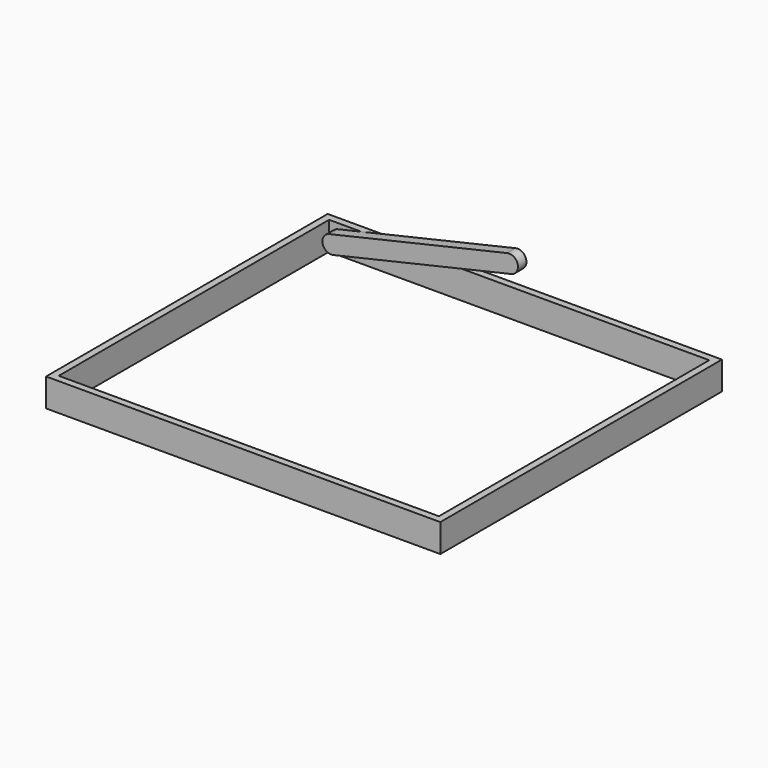
from build123d import *

# Parameters (mm, degrees)
F11_DEPTH = 38.1
F9_R      = 31.75
F12_DEPTH = 38.1
F4_W      = 1219.2
F4_H      = 101.6
F14_DEPTH = 25.4
F2_W      = 1397
F2_H      = 101.6
F15_DEPTH = 25.4
F16_DEPTH = 25.4
F17_DEPTH = 25.4


with BuildPart() as f11:
    # F10 (on offset) → F11 (new body)
    with BuildSketch(Plane.XZ.offset(-609.6)):
        with BuildLine():
            Line((-13.9338732219, 229.8766201204), (-653.518614158, 82.0122769))
            Line((-653.518614158, 82.0122769), (-639.2285902444, 20.201017717))
            Line((-639.2285902444, 20.201017717), (0.3561506917, 168.0653609375))
            ThreePointArc((0.3561506917, 168.0653609375), (-36.3965429187, 192.1260486131), (-13.9338732219, 229.8766201204))
        make_face()
        with BuildLine():
            ThreePointArc((26.2875365337, 199.2776378375), (13.7611579441, 224.5464898072), (-13.9338732219, 229.8766201204))
            ThreePointArc((-13.9338732219, 229.8766201204), (-36.3965429187, 192.1260486131), (0.3561506917, 168.0653609375))
            ThreePointArc((0.3561506917, 168.0653609375), (18.9588745347, 178.9882132463), (26.2875365337, 199.2776378375))
        make_face()
    extrude(amount=F11_DEPTH)

    # F9 (on face) → F12 (join)
    with BuildSketch(Plane.XZ.offset(-609.6)):
        with Locations((-647.7, 50.8)):
            Circle(F9_R)
    extrude(amount=F12_DEPTH)


with BuildPart() as f14:
    # F4 (on offset) → F14 (new body)
    with BuildSketch(Plane.YZ.offset(685.8)):
        with Locations((0, 50.8)):
            Rectangle(F4_W, F4_H)
    extrude(amount=F14_DEPTH)

    # F2 (on offset) → F15 (join)
    with BuildSketch(Plane.XZ.offset(609.6)):
        with Locations((12.7, 50.8)):
            Rectangle(F2_W, F2_H)
    extrude(amount=F15_DEPTH)

    # F8 (on offset) → F16 (join)
    with BuildSketch(Plane.YZ.offset(-685.8)):
        Polygon((-609.6, 0), (635, 0), (635, 101.6), (-609.6, 101.6), (-635, 101.6), (-635, 0), align=None)
    extrude(amount=-F16_DEPTH)

    # F7 (on offset) → F17 (join)
    with BuildSketch(Plane.XZ.offset(-609.6)):
        Polygon((-685.8, 0), (685.8, 0), (711.2, 0), (711.2, 101.6), (685.8, 101.6), (-685.8, 101.6), align=None)
    extrude(amount=-F17_DEPTH)


solid = Compound([f11.part, f14.part])
